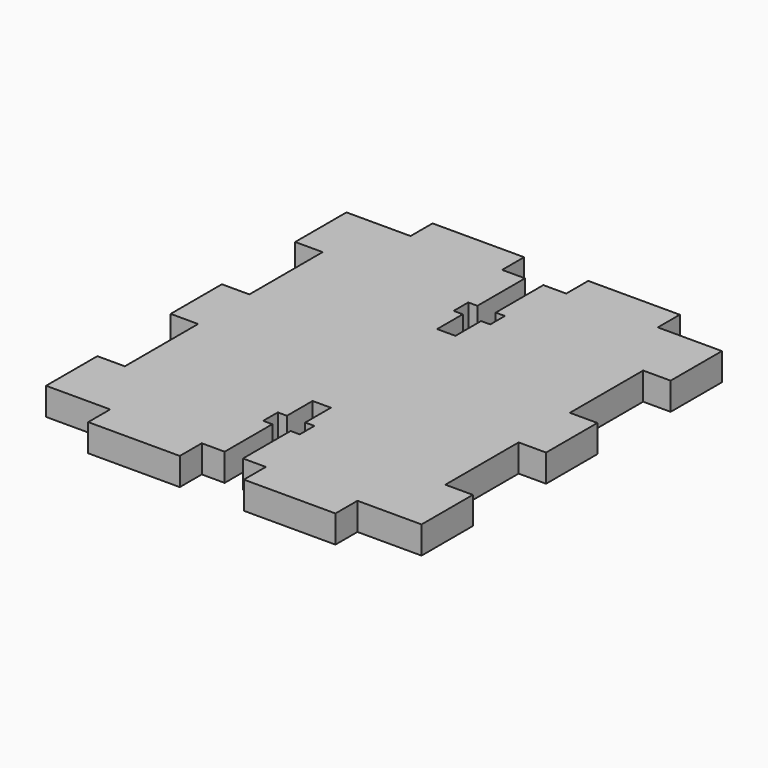
from build123d import *

# Parameters (mm, degrees)
F1_DEPTH = 1.5


with BuildPart() as f1:
    # F0 (on Top) → F1 (new body, symmetric)
    with BuildSketch(Plane.XY):
        Polygon((40.705057, -13.227531), (33.705057, -13.227531), (33.705057, -20.227531), (36.705057, -20.227531), (36.705057, -30.227531), (33.705057, -30.227531), (33.705057, -37.227531), (36.705057, -37.227531), (36.705057, -47.227531), (33.705057, -47.227531), (33.705057, -54.227531), (40.705057, -54.227531), (40.705057, -57.227531), (50.705057, -57.227531), (50.705057, -54.227531), (53.205057, -54.227531), (53.205057, -47.727531), (52.205057, -47.727531), (52.205057, -45.727531), (53.205057, -45.727531), (53.205057, -42.227531), (55.205057, -42.227531), (55.205057, -45.727531), (56.205057, -45.727531), (56.205057, -47.727531), (55.205057, -47.727531), (55.205057, -54.227531), (57.705057, -54.227531), (57.705057, -57.227531), (67.705057, -57.227531), (67.705057, -54.227531), (74.705057, -54.227531), (74.705057, -47.227531), (71.705057, -47.227531), (71.705057, -37.227531), (74.705057, -37.227531), (74.705057, -30.227531), (71.705057, -30.227531), (71.705057, -20.227531), (74.705057, -20.227531), (74.705057, -13.227531), (67.705057, -13.227531), (67.705057, -10.227531), (57.705057, -10.227531), (57.705057, -13.227531), (55.205057, -13.227531), (55.205057, -19.727531), (56.205057, -19.727531), (56.205057, -21.727531), (55.205057, -21.727531), (55.205057, -25.227531), (53.205057, -25.227531), (53.205057, -21.727531), (52.205057, -21.727531), (52.205057, -19.727531), (53.205057, -19.727531), (53.205057, -13.227531), (50.705057, -13.227531), (50.705057, -10.227531), (40.705057, -10.227531), align=None)
    extrude(amount=F1_DEPTH, both=True)


solid = f1.part
